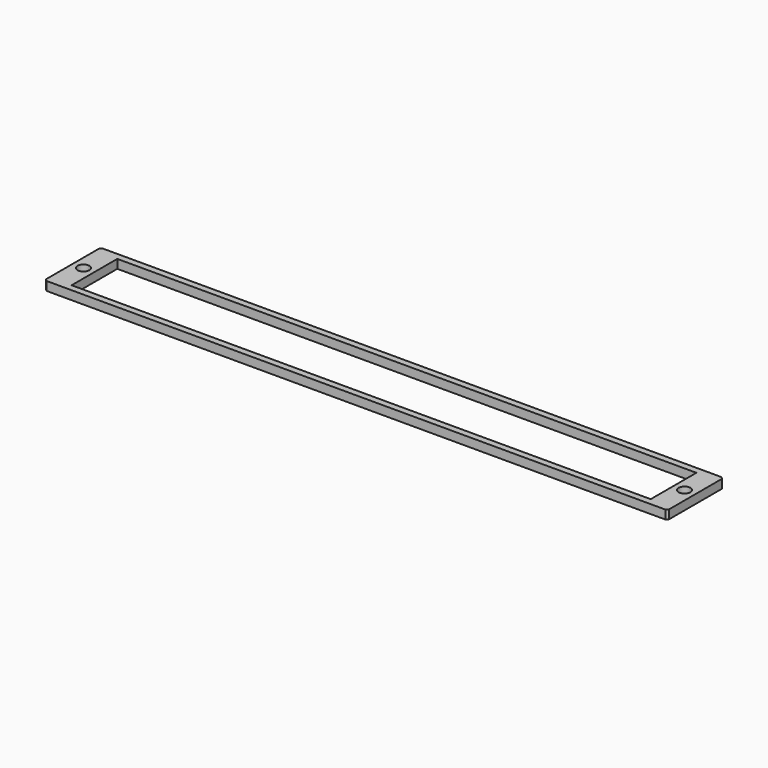
from build123d import *

# Parameters (mm, degrees)
F0_W     = 225.22048
F0_H     = 25.4
F0_R     = 2.15265
F0_W_2   = 209.34548
F0_H_2   = 20.6375
F1_DEPTH = 3.175
F2_SIZE  = 0.762


with BuildPart() as f1:
    # F0 (on Top) → F1 (new body)
    with BuildSketch(Plane.XY):
        Rectangle(F0_W, F0_H)
        with Locations((-108.64149, 0)):
            Circle(F0_R, mode=Mode.SUBTRACT)
        Rectangle(F0_W_2, F0_H_2, mode=Mode.SUBTRACT)
        with Locations((108.64149, 0)):
            Circle(F0_R, mode=Mode.SUBTRACT)
    extrude(amount=F1_DEPTH)

    # F2
    f2_edges = [f1.edges().sort_by_distance(p)[0] for p in [
        (-112.61024, -12.7, 1.5875),
        (-112.61024, 12.7, 1.5875),
        (112.61024, -12.7, 1.5875),
        (112.61024, 12.7, 1.5875),
    ]]
    chamfer(f2_edges, length=F2_SIZE)


solid = f1.part
